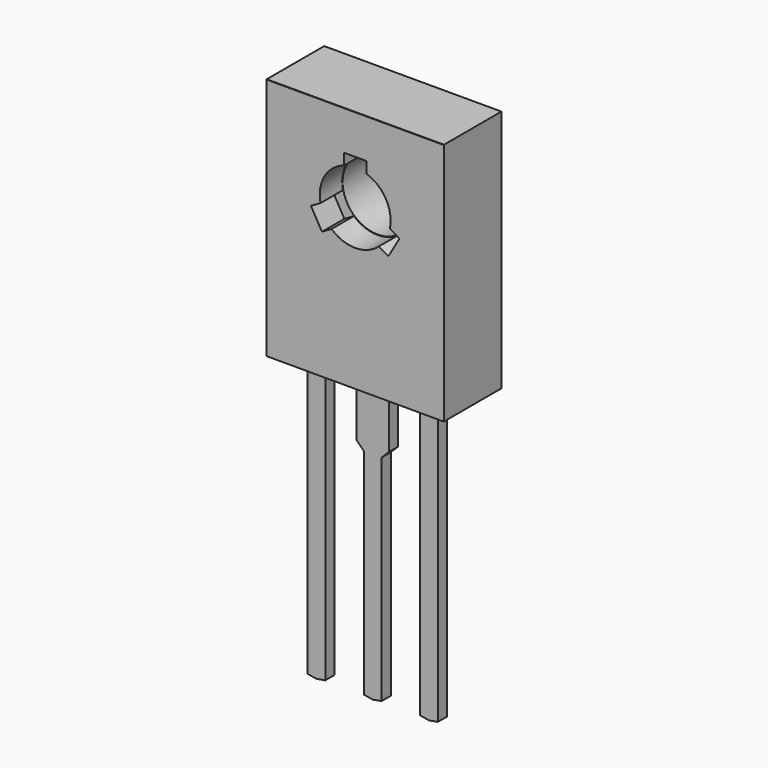
from build123d import *

# Parameters (mm, degrees)
SKETCH005_W     = 7.4
SKETCH005_H     = 10.4
SKETCH005_R     = 1.58
PAD003_DEPTH    = 0.985
PAD001_DEPTH    = 4
POCKET_DEPTH    = 1.35
SKETCH004_R     = 1.6
POCKET001_DEPTH = 3.251
SKETCH006_R     = 2
POCKET002_DEPTH = 0.02
PAD_DEPTH       = 0.2625


with BuildPart() as pad003:
    # Sketch005 → Pad003 (new body, symmetric)
    with BuildSketch(Plane.XZ.offset(-1)):
        with Locations((2.54, 8.4)):
            Rectangle(SKETCH005_W, SKETCH005_H)
        with Locations((2.54, 10.2)):
            Circle(SKETCH005_R, mode=Mode.SUBTRACT)
    extrude(amount=PAD003_DEPTH, both=True)


with BuildPart() as pocket002:
    # Sketch001 → Pad001 (new body, symmetric)
    with BuildSketch(Plane.YZ.offset(2.54)):
        Polygon((0, 3), (-1.25, 3), (-1.25, 13.99), (-1.24, 14), (2, 14), (2, 3), align=None)
    extrude(amount=PAD001_DEPTH, both=True)

    # Sketch003 → Pocket (cut)
    with BuildSketch(Plane(origin=(2.54, -1.25, 0), x_dir=(0, 0, -1), z_dir=(0, -1, 0))):
        with BuildLine():
            Line((-12.219868, 0.5), (-12.219868, -0.5))
            Line((-12.219868, -0.5), (-11.719868, -0.5))
            ThreePointArc((-11.719868, -0.5), (-11, -1.385641), (-9.873078, -1.566245))
            Line((-9.623078, -1.999257), (-9.873078, -1.566245))
            Line((-8.757053, -1.499257), (-9.623078, -1.999257))
            Line((-9.007053, -1.066245), (-8.757053, -1.499257))
            ThreePointArc((-9.007053, -1.066245), (-8.6, 0), (-9.007053, 1.066245))
            Line((-8.757053, 1.499257), (-9.007053, 1.066245))
            Line((-9.623078, 1.999257), (-8.757053, 1.499257))
            Line((-9.873078, 1.566245), (-9.623078, 1.999257))
            ThreePointArc((-9.873078, 1.566245), (-11, 1.385641), (-11.719868, 0.5))
            Line((-12.219868, 0.5), (-11.719868, 0.5))
        make_face()
    extrude(amount=-POCKET_DEPTH, mode=Mode.SUBTRACT)

    # Sketch004 → Pocket001 (cut, through all)
    with BuildSketch(Plane(origin=(2.54, -1.25, 0), x_dir=(0, 0, -1), z_dir=(0, -1, 0))):
        with Locations((-10.2, 0)):
            Circle(SKETCH004_R)
    extrude(amount=-POCKET001_DEPTH, mode=Mode.SUBTRACT)

    # Sketch006 → Pocket002 (cut)
    with BuildSketch(Plane(origin=(2.54, 2, 0), x_dir=(0, 0, 1), z_dir=(0, 1, 0))):
        with BuildLine():
            Line((5.8, 3), (12.2, 3))
            ThreePointArc((13, 2.2), (12.765685, 2.765685), (12.2, 3))
            Line((13, 2.2), (13, -2.2))
            ThreePointArc((12.2, -3), (12.765685, -2.765685), (13, -2.2))
            Line((12.2, -3), (5.8, -3))
            ThreePointArc((5, -2.2), (5.234315, -2.765685), (5.8, -3))
            Line((5, -2.2), (5, 2.2))
            ThreePointArc((5.8, 3), (5.234315, 2.765685), (5, 2.2))
        make_face()
        with Locations((10.2, 0)):
            Circle(SKETCH006_R, mode=Mode.SUBTRACT)
    extrude(amount=-POCKET002_DEPTH, mode=Mode.SUBTRACT)


with BuildPart() as to_126_3_vertical:
    # Sketch → Pad (new body, symmetric)
    with BuildSketch(Plane.XZ):
        Polygon((-0.4, 0.3025), (-0.4, 0), (-0.4, -9.679469), (0, -9.75), (0.4, -9.679469), (0.4, 0), (0.4, 0.3025), (0.4, 3.73), (-0.4, 3.73), align=None)
        Polygon((1.81, 0.33), (2.14, 0), (2.14, -9.679469), (2.54, -9.75), (2.94, -9.679469), (2.94, 0), (3.27, 0.33), (3.27, 3.73), (1.81, 3.73), align=None)
        Polygon((4.68, 0.3025), (4.68, 0), (4.68, -9.679469), (5.08, -9.75), (5.48, -9.679469), (5.48, 0), (5.48, 0.3025), (5.48, 3.73), (4.68, 3.73), align=None)
    extrude(amount=PAD_DEPTH, both=True)

    add(pad003.part)
    add(pocket002.part)


solid = to_126_3_vertical.part
